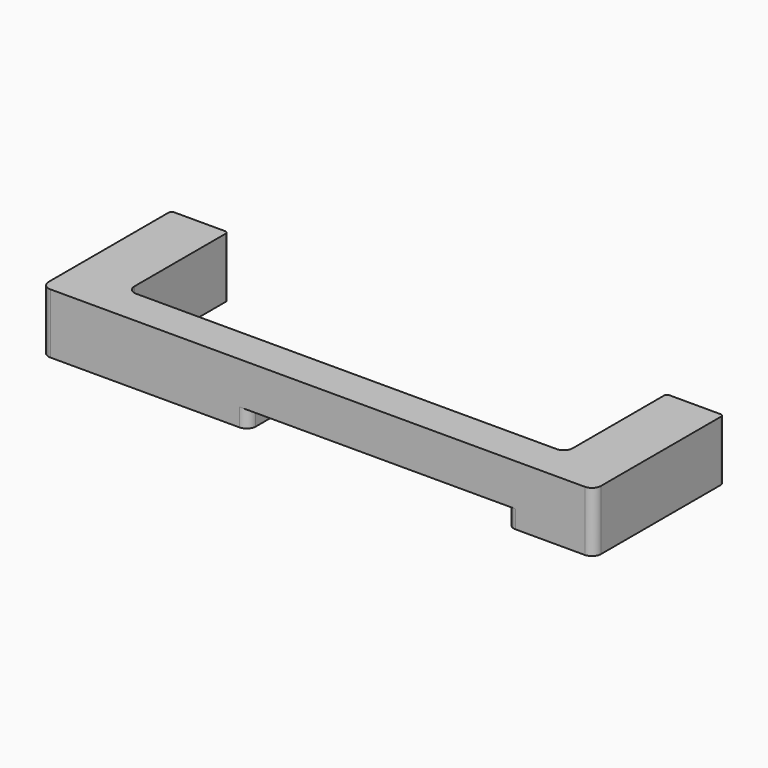
from build123d import *

# Parameters (mm, degrees)
F1_W     = 5
F1_H     = 6
F2_DEPTH = 10
F1_W_2   = 25
F3_START = 3
F1_W_3   = 43
F3_DEPTH = 7
F5_D     = 4.25
F5_DEPTH = 4
F5_TIP   = 1.2768288154
F6_D     = 4.25
F6_DEPTH = 4
F6_TIP   = 1.2768288154
F7_R     = 1.5
F8_R     = 0.5


with BuildPart() as f2:
    # F1 (on Top) → F2 (new body)
    with BuildSketch(Plane.XY):
        Polygon((36, 43), (26.5, 43), (26.5, 22), (26.5, 16), (36, 16), align=None)
        with Locations((24, 19)):
            Rectangle(F1_W, F1_H)
    extrude(amount=F2_DEPTH)



with BuildPart() as f2b:
    # F1 (on Top) → F2, piece 2 (new body)
    with BuildSketch(Plane.XY):
        Polygon((-46.5, 16), (-46.5, 22), (-46.5, 43), (-56, 43), (-56, 16), align=None)
        with Locations((-34, 19)):
            Rectangle(F1_W_2, F1_H)
    extrude(amount=F2_DEPTH)


with BuildPart() as f2_1:
    add(f2.part)

    add(f2b.part)  # F3 merges F2b
    # F1 (on Top) → F3 (join)
    with BuildSketch(Plane.XY.offset(F3_START)):
        with Locations((0, 19)):
            Rectangle(F1_W_3, F1_H)
    extrude(amount=F3_DEPTH)

    # F5
    with Locations(Plane(origin=(0, 43, 0), x_dir=(-1, 0, 0), z_dir=(0, 1, 0))):
        with Locations((-31.25, 4.25), (51.25, 4.25)):
            Hole(F5_D / 2, depth=F5_DEPTH)
            with Locations((0, 0, -(F5_DEPTH + F5_TIP / 2))):  # 118° drill point
                Cone(0, F5_D / 2, F5_TIP, mode=Mode.SUBTRACT)

    # F6
    with Locations(Plane(origin=(0, 0, 0), x_dir=(1, 0, 0), z_dir=(0, 0, -1))):
        with Locations((24.5, -19), (-24.5, -19)):
            Hole(F6_D / 2, depth=F6_DEPTH)
            with Locations((0, 0, -(F6_DEPTH + F6_TIP / 2))):  # 118° drill point
                Cone(0, F6_D / 2, F6_TIP, mode=Mode.SUBTRACT)

    # F7
    f7_edges = [f2_1.edges().sort_by_distance(p)[0] for p in [
        (26.5, 22, 5),
        (-46.5, 22, 5),
        (36, 16, 5),
        (-56, 16, 5),
        (21.5, 22, 1.5),
        (21.5, 16, 1.5),
        (-21.5, 22, 1.5),
        (-21.5, 16, 1.5),
    ]]
    fillet(f7_edges, radius=F7_R)

    # F8
    f8_edges = [f2_1.edges().sort_by_distance(p)[0] for p in [
        (36, 43, 5),
        (26.5, 43, 5),
        (-46.5, 43, 5),
        (-56, 43, 5),
    ]]
    fillet(f8_edges, radius=F8_R)


solid = f2_1.part
